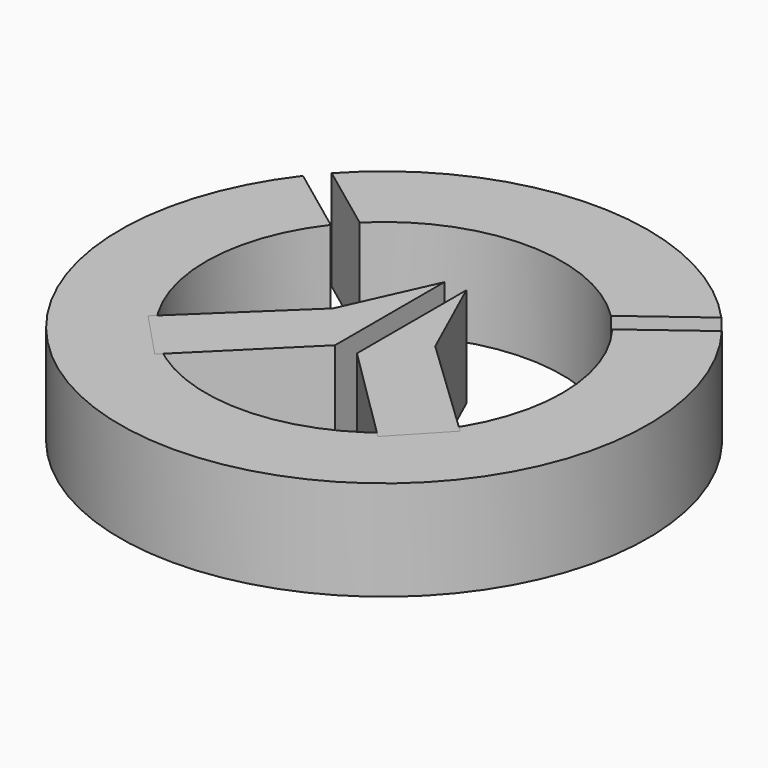
from build123d import *

# Parameters (mm, degrees)
F0_R     = 67.140802
F1_DEPTH = 25.4
F2_R     = 45.338721
F3_DEPTH = 25.4
F5_DEPTH = 25.4
F6_DEPTH = 25.4
F8_DEPTH = 25.4


with BuildPart() as f1:
    # F0 (on Top) → F1 (new body)
    with BuildSketch(Plane.XY):
        Circle(F0_R)
    extrude(amount=F1_DEPTH)

    # F2 (on Top) → F3 (cut)
    with BuildSketch(Plane.XY):
        Circle(F2_R)
    extrude(amount=F3_DEPTH, mode=Mode.SUBTRACT)

    # F4 (on Top) → F5 (cut)
    with BuildSketch(Plane.XY):
        Polygon((-57.100676, 43.670323), (-35.660278, 27.700296), (-31.101426, 31.546712), (-53.631231, 48.328191), align=None)
        Polygon((35.713796, 27.467711), (57.154194, 43.437738), (53.684748, 48.095607), (31.154943, 31.314127), align=None)
    extrude(amount=F5_DEPTH, mode=Mode.SUBTRACT)

    # F4 (on Top) → F6 (cut)
    with BuildSketch(Plane.XY):
        Polygon((-57.100676, 43.670323), (-35.660278, 27.700296), (-31.101426, 31.546712), (-53.631231, 48.328191), align=None)
        Polygon((35.713796, 27.467711), (57.154194, 43.437738), (53.684748, 48.095607), (31.154943, 31.314127), align=None)
    extrude(amount=F6_DEPTH, mode=Mode.SUBTRACT)


with BuildPart() as f8:
    # F7 (on Top) → F8 (new body)
    with BuildSketch(Plane.XY):
        Polygon((-2.791047, -12.094535), (-2.791047, 22.66064), (-13.024885, 0), (-39.698261, -25.437786), (-28.375641, -37.446544), align=None)
        Polygon((13.024885, 0), (2.791047, 22.66064), (2.791047, -12.094535), (28.375641, -37.446544), (39.698261, -25.437786), align=None)
    extrude(amount=F8_DEPTH)


solid = Compound([f1.part, f8.part])
